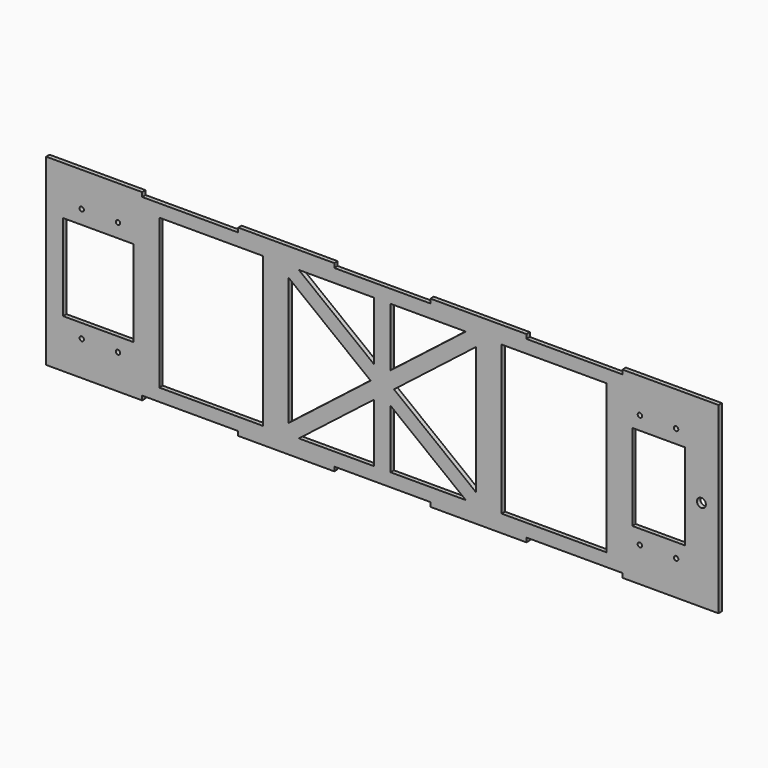
from build123d import *

# Parameters (mm, degrees)
F0_R     = 1.64084
F0_W     = 52.4243835688
F0_H     = 64.2
F0_W_2   = 77.0990398764
F0_H_2   = 111.2592631512
F0_W_3   = 78.0910737813
F0_H_3   = 110.6960067088
F0_W_4   = 39.0626990616
F0_R_2   = 3.302
F1_DEPTH = 3.175


with BuildPart() as f1:
    # F0 (on Front) → F1 (new body)
    with BuildSketch(Plane.XZ):
        Polygon((162.477889657, -53.3774036679), (162.477889657, -50.2024036679), (162.477889657, 79.7975963321), (162.477889657, 82.9725963321), (91.0493182284, 82.9725963321), (91.0493182284, 79.7975963321), (19.6207467998, 79.7975963321), (19.6207467998, 82.9725963321), (-51.8078246287, 82.9725963321), (-51.8078246287, 79.7975963321), (-123.2363960573, 79.7975963321), (-123.2363960573, 82.9725963321), (-194.6649674859, 82.9725963321), (-194.6649674859, 79.7975963321), (-266.0935389144, 79.7975963321), (-266.0935389144, 82.9725963321), (-337.522110343, 82.9725963321), (-337.522110343, 79.7975963321), (-337.522110343, -50.2024036679), (-337.522110343, -53.3774036679), (-266.0935389144, -53.3774036679), (-266.0935389144, -50.2024036679), (-194.6649674859, -50.2024036679), (-194.6649674859, -53.3774036679), (-123.2363960573, -53.3774036679), (-123.2363960573, -50.2024036679), (-51.8078246287, -50.2024036679), (-51.8078246287, -53.3774036679), (19.6207467998, -53.3774036679), (19.6207467998, -50.2024036679), (91.0493182284, -50.2024036679), (91.0493182284, -53.3774036679), align=None)
        with Locations((-310.996810343, -27.6524106679)):
            Circle(F0_R, mode=Mode.SUBTRACT)
        with Locations((-284.047410343, -27.6524106679)):
            Circle(F0_R, mode=Mode.SUBTRACT)
        with Locations((104.003189657, -27.6524106675)):
            Circle(F0_R, mode=Mode.SUBTRACT)
        with Locations((130.952589657, -27.6524106675)):
            Circle(F0_R, mode=Mode.SUBTRACT)
        with Locations((-298.6099185586, 14.7975963321)):
            Rectangle(F0_W, F0_H, mode=Mode.SUBTRACT)
        with Locations((-214.798206836, 14.7975963321)):
            Rectangle(F0_W_2, F0_H_2, mode=Mode.SUBTRACT)
        with Locations((-310.996810343, 57.2475963321)):
            Circle(F0_R, mode=Mode.SUBTRACT)
        with Locations((-284.047410343, 57.2475963321)):
            Circle(F0_R, mode=Mode.SUBTRACT)
        Polygon((-17.8455337882, -32.7346504676), (-17.8455337882, -40.3546504676), (-25.4655337882, -40.3546504676), (-81.375874579, -40.3546504676), (-93.6683461071, -40.3546504676), (-149.5786868978, -40.3546504676), (-157.1986868978, -40.3546504676), (-157.1986868978, -32.7346504676), (-157.1986868978, 62.3298431318), (-157.1986868978, 69.9498431318), (-149.5786868978, 69.9498431318), (-93.6683461071, 69.9498431318), (-81.375874579, 69.9498431318), (-25.4655337882, 69.9498431318), (-17.8455337882, 69.9498431318), (-17.8455337882, 62.3298431318), align=None, mode=Mode.SUBTRACT)
        with Locations((40.2500031024, 14.7975963321)):
            Rectangle(F0_W_3, F0_H_3, mode=Mode.SUBTRACT)
        with Locations((117.8768895238, 15.0792245534)):
            Rectangle(F0_W_4, F0_H, mode=Mode.SUBTRACT)
        with Locations((149.777889657, 14.7975963321)):
            Circle(F0_R_2, mode=Mode.SUBTRACT)
        with Locations((104.003189657, 57.2475963321)):
            Circle(F0_R, mode=Mode.SUBTRACT)
        with Locations((130.952589657, 57.2475963321)):
            Circle(F0_R, mode=Mode.SUBTRACT)
        Polygon((-157.1986868978, 62.3298431318), (-96.2199302636, 14.7975963321), (-93.6683461071, 16.7865271426), (-93.6683461071, 26.3683687987), (-149.5786868978, 69.9498431318), (-157.1986868978, 69.9498431318), align=None)
        Polygon((-78.8242904225, 14.7975963321), (-17.8455337882, 62.3298431318), (-17.8455337882, 69.9498431318), (-25.4655337882, 69.9498431318), (-81.375874579, 26.3683687987), (-81.375874579, 16.7865271426), align=None)
        Polygon((-25.4655337882, -40.3546504676), (-17.8455337882, -40.3546504676), (-17.8455337882, -32.7346504676), (-78.8242904225, 14.7975963321), (-81.375874579, 12.8086655216), (-81.375874579, 3.2268238655), align=None)
        Polygon((-157.1986868978, -40.3546504676), (-149.5786868978, -40.3546504676), (-93.6683461071, 3.2268238655), (-93.6683461071, 12.8086655216), (-96.2199302636, 14.7975963321), (-157.1986868978, -32.7346504676), align=None)
        Polygon((-93.6683461071, -40.3546504676), (-81.375874579, -40.3546504676), (-81.375874579, 3.2268238655), (-87.522110343, 8.0177446935), (-93.6683461071, 3.2268238655), align=None)
        Polygon((-87.522110343, 8.0177446935), (-81.375874579, 3.2268238655), (-81.375874579, 12.8086655216), align=None)
        Polygon((-93.6683461071, 3.2268238655), (-87.522110343, 8.0177446935), (-93.6683461071, 12.8086655216), align=None)
        Polygon((-96.2199302636, 14.7975963321), (-93.6683461071, 12.8086655216), (-93.6683461071, 16.7865271426), align=None)
        Polygon((-93.6683461071, 12.8086655216), (-87.522110343, 8.0177446935), (-81.375874579, 12.8086655216), (-81.375874579, 16.7865271426), (-87.522110343, 21.5774479706), (-93.6683461071, 16.7865271426), align=None)
        Polygon((-87.522110343, 21.5774479706), (-81.375874579, 16.7865271426), (-81.375874579, 26.3683687987), align=None)
        Polygon((-93.6683461071, 16.7865271426), (-87.522110343, 21.5774479706), (-93.6683461071, 26.3683687987), align=None)
        Polygon((-93.6683461071, 26.3683687987), (-87.522110343, 21.5774479706), (-81.375874579, 26.3683687987), (-81.375874579, 69.9498431318), (-93.6683461071, 69.9498431318), align=None)
        Polygon((-81.375874579, 12.8086655216), (-78.8242904225, 14.7975963321), (-81.375874579, 16.7865271426), align=None)
    extrude(amount=F1_DEPTH)


solid = f1.part
